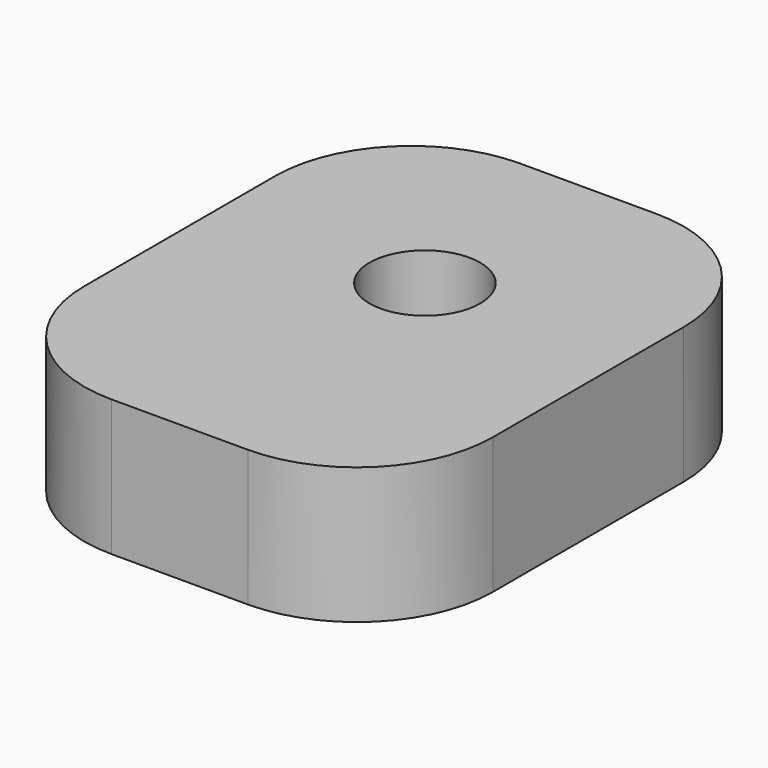
from build123d import *

# Parameters (mm, degrees)
F0_R     = 1.625
F1_DEPTH = 4
F2_R     = 4


with BuildPart() as f1:
    # F0 (on Top) → F1 (new body)
    with BuildSketch(Plane.XY):
        Polygon((6, -6), (6, 6), (-6, 6), (-6, -6), (-6, -9), (6, -9), align=None)
        Circle(F0_R, mode=Mode.SUBTRACT)
    extrude(amount=F1_DEPTH)

    # F2
    f2_edges = [f1.edges().sort_by_distance(p)[0] for p in [
        (-6, 6, 2),
        (-6, -9, 2),
        (6, -9, 2),
        (6, 6, 2),
    ]]
    fillet(f2_edges, radius=F2_R)


solid = f1.part
